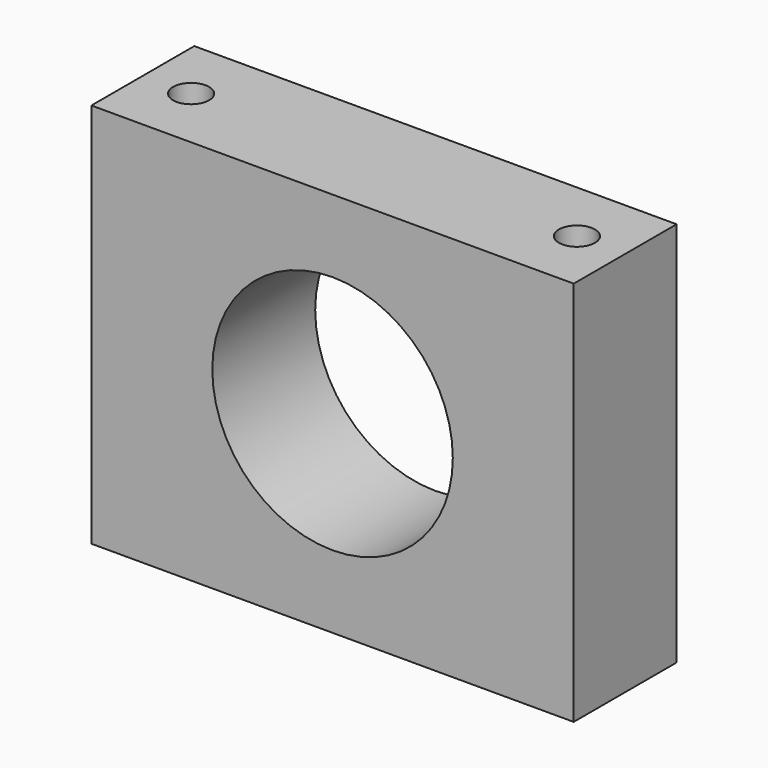
from build123d import *

# Parameters (mm, degrees)
F0_W     = 95.25
F0_H     = 76.2
F0_R     = 23.749
F1_DEPTH = 25.4
F2_R     = 3.5687
F3_DEPTH = 76.201


with BuildPart() as f1:
    # F0 (on Front) → F1 (new body)
    with BuildSketch(Plane.XZ):
        with Locations((10.559296, 2.289271)):
            Rectangle(F0_W, F0_H)
        with Locations((10.559296, 2.289271)):
            Circle(F0_R, mode=Mode.SUBTRACT)
    extrude(amount=F1_DEPTH)

    # F2 (on face) → F3 (cut, through all)
    with BuildSketch(Plane.XY.offset(40.389271)):
        with Locations((48.659296, -12.7)):
            Circle(F2_R)
        with Locations((-27.540704, -12.7)):
            Circle(F2_R)
    extrude(amount=-F3_DEPTH, mode=Mode.SUBTRACT)


solid = f1.part
